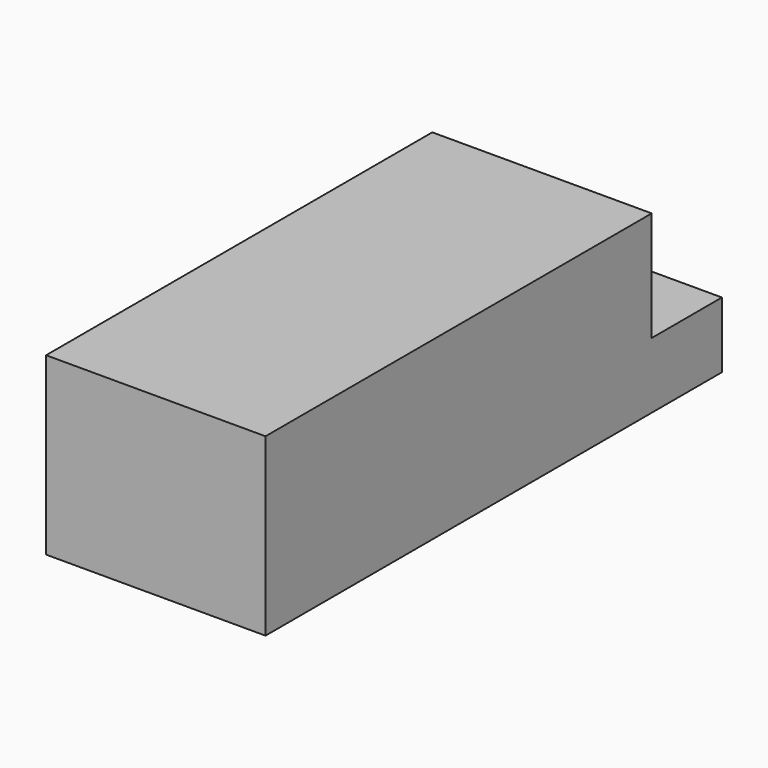
from build123d import *

# Parameters (mm, degrees)
F0_W     = 31.75
F0_H     = 82.55
F1_DEPTH = 25.4
F2_W     = 31.75
F2_H     = 15.875
F3_DEPTH = 12.7
F5_D     = 3.7973
F5_DEPTH = 12.7
F5_TIP   = 1.1408240143
F7_D     = 2.7051
F7_DEPTH = 9.525
F7_TIP   = 0.8126940303


with BuildPart() as f1:
    # F0 (on Top) → F1 (new body)
    with BuildSketch(Plane.XY):
        with Locations((15.875, -41.275)):
            Rectangle(F0_W, F0_H)
    extrude(amount=F1_DEPTH)

    # F2 (on face) → F3 (cut)
    with BuildSketch(Plane(origin=(0, 0, 0), x_dir=(-1, 0, 0), z_dir=(0, 1, 0))):
        with Locations((-15.875, 17.4625)):
            Rectangle(F2_W, F2_H)
    extrude(amount=-F3_DEPTH, mode=Mode.SUBTRACT)

    # F5
    with Locations(Plane(origin=(0, 0, 0), x_dir=(-1, 0, 0), z_dir=(0, 1, 0))):
        with Locations((-25.4, 4.7752), (-6.35, 4.7752)):
            Hole(F5_D / 2, depth=F5_DEPTH)
            with Locations((0, 0, -(F5_DEPTH + F5_TIP / 2))):  # 118° drill point
                Cone(0, F5_D / 2, F5_TIP, mode=Mode.SUBTRACT)

    # F7
    with Locations(Plane(origin=(0, 0, 0), x_dir=(0, -1, 0), z_dir=(-1, 0, 0))):
        with Locations((19.8374, 19.685), (75.4126, 19.685)):
            Hole(F7_D / 2, depth=F7_DEPTH)
            with Locations((0, 0, -(F7_DEPTH + F7_TIP / 2))):  # 118° drill point
                Cone(0, F7_D / 2, F7_TIP, mode=Mode.SUBTRACT)


solid = f1.part
